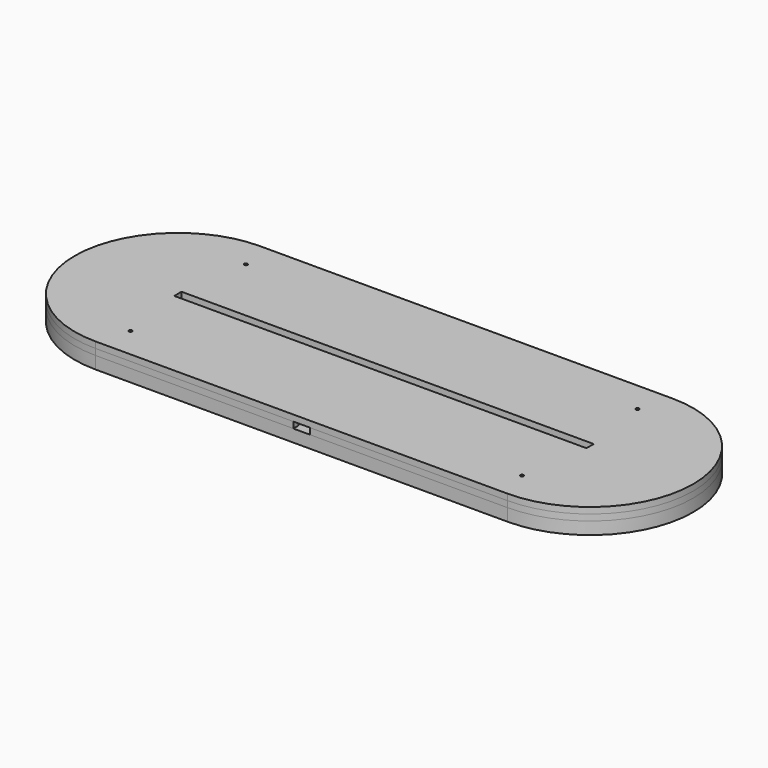
from build123d import *

# Parameters (mm, degrees)
BOX_BOTTOM_HALF_0_W     = 301.98633
BOX_BOTTOM_HALF_0_H     = 102
BOX_BOTTOM_HALF_0_DEPTH = 7
PAD_DEPTH               = 3
PAD001_DEPTH            = 3
SKETCH002_W             = 209.08447
SKETCH002_H             = 4.18
PAD002_DEPTH            = 3
SKETCH003_W             = 26.3
SKETCH003_H             = 34.2
POCKET_DEPTH            = 3
SKETCH004_W             = 18
SKETCH004_H             = 25
POCKET001_DEPTH         = 3
SKETCH005_W             = 14
SKETCH005_H             = 5
POCKET002_DEPTH         = 6
SKETCH006_W             = 14
SKETCH006_H             = 3
POCKET003_DEPTH         = 3
SKETCH007_W             = 8
SKETCH007_H             = 3
POCKET004_DEPTH         = 3
SKETCH008_W             = 200
SKETCH008_H             = 4.4
PAD003_DEPTH            = 3
SKETCH009_R             = 0.8
POCKET005_DEPTH         = 12
BOX_BOTTOM_HALF_1_W     = 301.98633
BOX_BOTTOM_HALF_1_H     = 102
BOX_BOTTOM_HALF_1_DEPTH = 4


with BuildPart() as box_bottom_half_0_body:
    # box_bottom_half_0 → box_bottom_half_0 (new body)
    with BuildSketch(Plane(origin=(-150.993165, -51, -1), x_dir=(1, 0, 0), z_dir=(0, 0, 1))):
        with Locations((150.993165, 51)):
            Rectangle(BOX_BOTTOM_HALF_0_W, BOX_BOTTOM_HALF_0_H)
    extrude(amount=BOX_BOTTOM_HALF_0_DEPTH)


with BuildPart() as body:
    # Sketch → Pad (new body)
    with BuildSketch(Plane.XY):
        with BuildLine():
            ThreePointArc((-100, 50), (-150, 0), (-100, -50))
            Line((-100, -50), (100, -50))
            ThreePointArc((100, -50), (150, 0), (100, 50))
            Line((-100, 50), (100, 50))
        make_face()
    extrude(amount=PAD_DEPTH)

    # Sketch001 (on Face6 of Pad) → Pad001 (join)
    with BuildSketch(Plane.XY.offset(3)):
        with BuildLine():
            ThreePointArc((-100, 50), (-150, 0), (-100, -50))
            Line((-100, -50), (100, -50))
            ThreePointArc((100, -50), (150, 0), (100, 50))
            Line((-100, 50), (100, 50))
        make_face()
        with BuildLine():
            ThreePointArc((-100, 5), (-105, 0), (-100, -5))
            Line((-100, -5), (100, -5))
            ThreePointArc((100, -5), (105, 0), (100, 5))
            Line((-100, 5), (100, 5))
        make_face(mode=Mode.SUBTRACT)
    extrude(amount=PAD001_DEPTH)

    # Sketch002 (on Face9 of Pad001) → Pad002 (join)
    with BuildSketch(Plane.XY.offset(6)):
        with BuildLine():
            ThreePointArc((-100, 50), (-150, 0), (-100, -50))
            Line((-100, -50), (100, -50))
            ThreePointArc((100, -50), (150, 0), (100, 50))
            Line((-100, 50), (100, 50))
        make_face()
        Rectangle(SKETCH002_W, SKETCH002_H, mode=Mode.SUBTRACT)
    extrude(amount=PAD002_DEPTH)

    # Sketch003 (on Face13 of Pad002) → Pocket (cut)
    with BuildSketch(Plane.XY.offset(9)):
        with Locations((0, -29.9)):
            Rectangle(SKETCH003_W, SKETCH003_H)
    extrude(amount=-POCKET_DEPTH, mode=Mode.SUBTRACT)

    # Sketch004 (on Face27 of Pocket) → Pocket001 (cut)
    with BuildSketch(Plane.XY.offset(6)):
        with Locations((0, -25.3)):
            Rectangle(SKETCH004_W, SKETCH004_H)
    extrude(amount=-POCKET001_DEPTH, mode=Mode.SUBTRACT)

    # Sketch005 (on Face13 of Pocket001) → Pocket002 (cut)
    with BuildSketch(Plane.XY.offset(9)):
        with Locations((0, -10.3)):
            Rectangle(SKETCH005_W, SKETCH005_H)
    extrude(amount=-POCKET002_DEPTH, mode=Mode.SUBTRACT)

    # Sketch006 (on Face23 of Pocket002) → Pocket003 (cut)
    with BuildSketch(Plane.XZ.offset(7.8)):
        with Locations((0, 4.5)):
            Rectangle(SKETCH006_W, SKETCH006_H)
    extrude(amount=-POCKET003_DEPTH, mode=Mode.SUBTRACT)

    # Sketch007 (on Face13 of Pocket003) → Pocket004 (cut)
    with BuildSketch(Plane.XY.offset(9)):
        with Locations((0, -48.5)):
            Rectangle(SKETCH007_W, SKETCH007_H)
    extrude(amount=-POCKET004_DEPTH, mode=Mode.SUBTRACT)

    # Sketch008 (on Face15 of Pocket004) → Pad003 (join)
    with BuildSketch(Plane.XY.offset(9)):
        with BuildLine():
            ThreePointArc((-100, 50), (-150, 0), (-100, -50))
            Line((-100, -50), (100, -50))
            ThreePointArc((100, -50), (150, 0), (100, 50))
            Line((-100, 50), (100, 50))
        make_face()
        Rectangle(SKETCH008_W, SKETCH008_H, mode=Mode.SUBTRACT)
    extrude(amount=PAD003_DEPTH)

    # Sketch009 (on Face4 of Pad003) → Pocket005 (cut)
    with BuildSketch(Plane(origin=(0, 0, 0), x_dir=(1, 0, 0), z_dir=(0, 0, -1))):
        with Locations((-95, 35)):
            Circle(SKETCH009_R)
        with Locations((-95, -35)):
            Circle(SKETCH009_R)
    pocket005 = extrude(amount=-POCKET005_DEPTH, mode=Mode.SUBTRACT)

    # Mirrored: Pocket005 across Sketch009 V_Axis
    add(pocket005.mirror(Plane(origin=(0, 0, 0), x_dir=(0, 0, -1), z_dir=(1, 0, 0))), mode=Mode.SUBTRACT)


with BuildPart() as bottom_half_0_body:
    # bottom_half_0 base: copy of Body
    add(body.part)

    # bottom_half_0: intersect box_bottom_half_0 body
    add(box_bottom_half_0_body.part, mode=Mode.INTERSECT)


with BuildPart() as box_bottom_half_1_body:
    # box_bottom_half_1 → box_bottom_half_1 (new body)
    with BuildSketch(Plane(origin=(-150.993165, -51, 5), x_dir=(1, 0, 0), z_dir=(0, 0, 1))):
        with Locations((150.993165, 51)):
            Rectangle(BOX_BOTTOM_HALF_1_W, BOX_BOTTOM_HALF_1_H)
    extrude(amount=BOX_BOTTOM_HALF_1_DEPTH)


with BuildPart() as top_half_0_body:
    # top_half_0 base: copy of Body
    add(body.part)

    # top_half_0: cut box_bottom_half_0 body
    add(box_bottom_half_0_body.part, mode=Mode.SUBTRACT)


with BuildPart() as bottom_half_1_body:
    # bottom_half_1 base: copy of top_half_0 body
    add(top_half_0_body.part)

    # bottom_half_1: intersect box_bottom_half_1 body
    add(box_bottom_half_1_body.part, mode=Mode.INTERSECT)


with BuildPart() as top_half_1_body:
    # top_half_1 base: copy of top_half_0 body
    add(top_half_0_body.part)

    # top_half_1: cut box_bottom_half_1 body
    add(box_bottom_half_1_body.part, mode=Mode.SUBTRACT)


solid = Compound([bottom_half_0_body.part, bottom_half_1_body.part, top_half_1_body.part])
